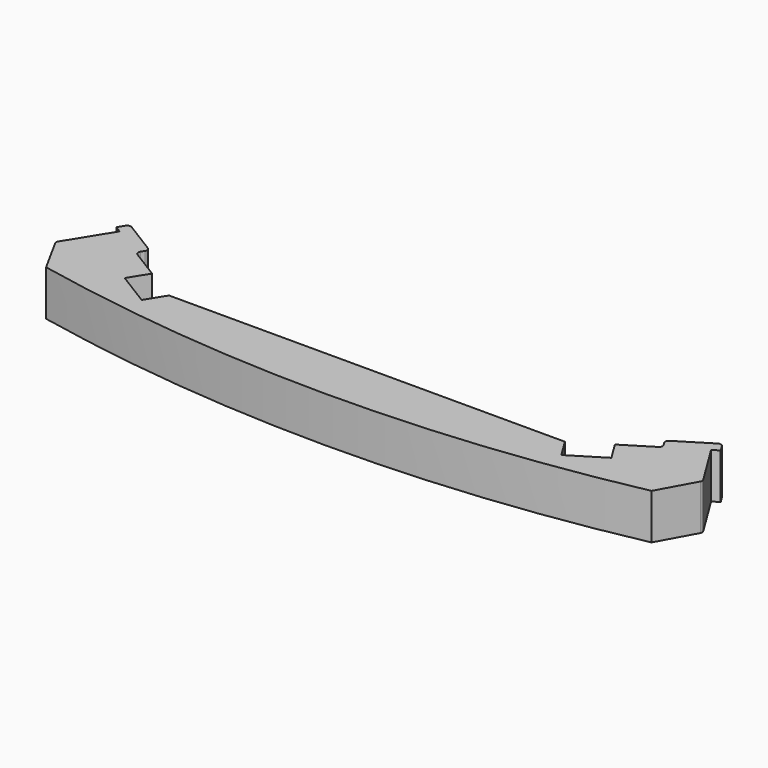
from build123d import *

# Parameters (mm, degrees)
F1_DEPTH = 6


with BuildPart() as f1:
    # F0 (on Top) → F1 (new body)
    with BuildSketch(Plane.XY):
        with BuildLine():
            Line((-30.578457, 5.733804), (-34.406384, 8.099595))
            ThreePointArc((-34.406384, 8.099595), (-34.630143, 8.410045), (-34.568844, 8.787787))
            Line((-34.568844, 8.787787), (-34.305978, 9.213112))
            ThreePointArc((-34.305978, 9.213112), (-34.244679, 9.590854), (-34.468438, 9.901303))
            Line((-34.468438, 9.901303), (-38.72169, 12.52996))
            ThreePointArc((-38.72169, 12.52996), (-39.099432, 12.59126), (-39.409882, 12.367501))
            Line((-39.409882, 12.367501), (-39.935613, 11.51685))
            Line((-39.935613, 11.51685), (-39.084962, 10.991119))
            Line((-39.084962, 10.991119), (-42.611832, 5.284529))
            ThreePointArc((-42.611832, 5.284529), (-42.686341, 5.034537), (-42.624799, 4.78104))
            Line((-42.624799, 4.78104), (-40, 0))
            ThreePointArc((-40, 0), (0, -4.077414), (40, 0))
            Line((40, 0), (42.624799, 4.78104))
            ThreePointArc((42.624799, 4.78104), (42.686341, 5.034537), (42.611832, 5.284529))
            Line((42.611832, 5.284529), (39.084962, 10.991119))
            Line((39.084962, 10.991119), (39.935613, 11.51685))
            Line((39.935613, 11.51685), (39.409882, 12.367501))
            ThreePointArc((39.409882, 12.367501), (39.099432, 12.59126), (38.72169, 12.52996))
            Line((38.72169, 12.52996), (34.468438, 9.901303))
            ThreePointArc((34.468438, 9.901303), (34.244679, 9.590854), (34.305978, 9.213112))
            Line((34.305978, 9.213112), (34.568844, 8.787787))
            ThreePointArc((34.568844, 8.787787), (34.630143, 8.410045), (34.406384, 8.099595))
            Line((34.406384, 8.099595), (30.578457, 5.733804))
            Line((30.578457, 5.733804), (32.155651, 3.181852))
            Line((32.155651, 3.181852), (27.732268, 0.448048))
            Line((27.732268, 0.448048), (26.155074, 3))
            Line((26.155074, 3), (0, 3))
            Line((0, 3), (-26.155074, 3))
            Line((-26.155074, 3), (-27.732268, 0.448048))
            Line((-27.732268, 0.448048), (-32.155651, 3.181852))
            Line((-32.155651, 3.181852), (-30.578457, 5.733804))
        make_face()
    extrude(amount=F1_DEPTH)


solid = f1.part
